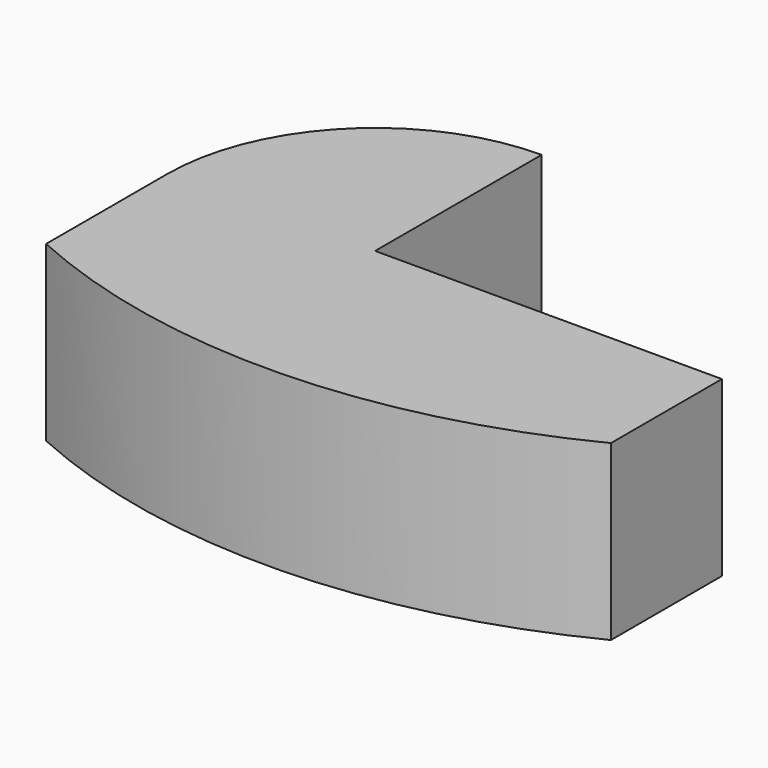
from build123d import *

# Parameters (mm, degrees)
F1_DEPTH = 25


with BuildPart() as f1:
    # F0 (on Top) → F1 (new body)
    with BuildSketch(Plane.XY):
        with BuildLine():
            Line((35.301793, 32.203547), (35.301793, 62.203547))
            ThreePointArc((35.301793, 62.203547), (14.08859, 53.416751), (5.301793, 32.203547))
            Line((5.301793, 32.203547), (5.301793, 10.403442))
            ThreePointArc((5.301793, 10.403442), (45.506026, 2.227006), (85.301793, 12.203547))
            Line((85.301793, 12.203547), (85.301793, 32.203547))
            Line((85.301793, 32.203547), (35.301793, 32.203547))
        make_face()
    extrude(amount=F1_DEPTH)


solid = f1.part
